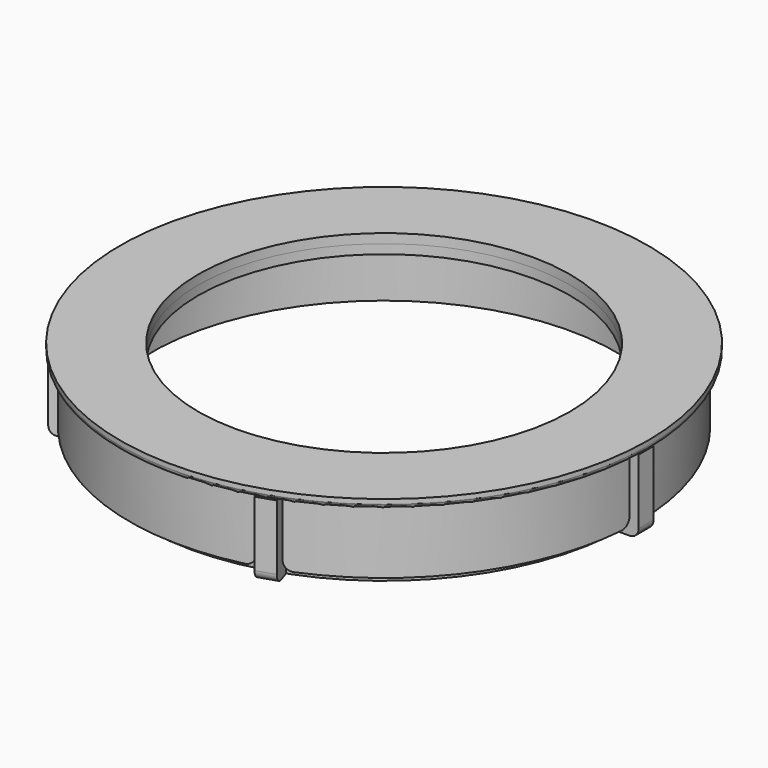
from build123d import *

# Parameters (mm, degrees)
CYLINDER002_R     = 20
CYLINDER002_DEPTH = 20
CYLINDER_R        = 25
CYLINDER_DEPTH    = 7
BOX_W             = 3
BOX_H             = 2
BOX_DEPTH         = 8
FILLET_R          = 1
ARRAY_COUNT       = 5
CYLINDER001_R     = 26
CYLINDER001_DEPTH = 8
CYLINDER005_R     = 20
CYLINDER005_DEPTH = 20
BOX001_W          = 5
BOX001_H          = 2.4
BOX001_DEPTH      = 7
ARRAY001_COUNT    = 5
CYLINDER003_R     = 26.4
CYLINDER003_DEPTH = 7
CYLINDER006_R     = 28.4
CYLINDER006_DEPTH = 1
FILLET001_R       = 0.5
CYLINDER004_R     = 27.4
CYLINDER004_DEPTH = 8
FILLET002_R       = 1


with BuildPart() as lens_hole:
    # Cylinder002 → Cylinder002 (new body)
    with BuildSketch(Plane.XY):
        Circle(CYLINDER002_R)
    extrude(amount=CYLINDER002_DEPTH)


with BuildPart() as extract_fusion:
    # Cylinder → Cylinder (new body)
    with BuildSketch(Plane.XY):
        Circle(CYLINDER_R)
    extrude(amount=CYLINDER_DEPTH)

    # Fusion: union lens hole
    add(lens_hole.part)


with BuildPart() as tick_array:
    # Box → Box (new body)
    with BuildSketch(Plane(origin=(25.2, -1, 0), x_dir=(1, 0, 0), z_dir=(0, 0, 1))):
        with Locations((1.5, 1)):
            Rectangle(BOX_W, BOX_H)
    extrude(amount=BOX_DEPTH)

    # Fillet
    fillet_edges = [tick_array.edges().sort_by_distance(p)[0] for p in [
        (25.2, 0, 0),
        (28.2, 0, 0),
    ]]
    fillet(fillet_edges, radius=FILLET_R)

    # Array: tick array ×5 about axis
    array_axis = Axis((0, 0, 0), (0, 0, 1))


with BuildPart() as tick_array_1:
    add(tick_array.part)
    for i in range(1, ARRAY_COUNT):
        add(tick_array.part.rotate(array_axis, i * 360 / ARRAY_COUNT))


with BuildPart() as border_cut:
    # Cylinder001 → Cylinder001 (new body)
    with BuildSketch(Plane.XY):
        Circle(CYLINDER001_R)
    extrude(amount=CYLINDER001_DEPTH)

    # Fusion002: union tick array
    add(tick_array_1.part)

    # Cut: cut extract fusion
    add(extract_fusion.part, mode=Mode.SUBTRACT)


with BuildPart() as lens_hole001:
    # Cylinder005 → Cylinder005 (new body)
    with BuildSketch(Plane.XY):
        Circle(CYLINDER005_R)
    extrude(amount=CYLINDER005_DEPTH)


with BuildPart() as tick_array001:
    # Box001 → Box001 (new body)
    with BuildSketch(Plane(origin=(25, -1.2, 0), x_dir=(1, 0, 0), z_dir=(0, 0, 1))):
        with Locations((2.5, 1.2)):
            Rectangle(BOX001_W, BOX001_H)
    extrude(amount=BOX001_DEPTH)

    # Array001: tick array001 ×5 about axis
    array001_axis = Axis((0, 0, 0), (0, 0, 1))


with BuildPart() as tick_array001_1:
    add(tick_array001.part)
    for i in range(1, ARRAY001_COUNT):
        add(tick_array001.part.rotate(array001_axis, i * 360 / ARRAY001_COUNT))


with BuildPart() as extract_fusion001:
    # Cylinder003 → Cylinder003 (new body)
    with BuildSketch(Plane.XY):
        Circle(CYLINDER003_R)
    extrude(amount=CYLINDER003_DEPTH)

    # Fusion001: union lens hole001, tick array001
    add(lens_hole001.part)
    add(tick_array001_1.part)


with BuildPart() as disk_fillet:
    # Cylinder006 → Cylinder006 (new body)
    with BuildSketch(Plane.XY.offset(7)):
        Circle(CYLINDER006_R)
    extrude(amount=CYLINDER006_DEPTH)

    # Fillet001
    fillet001_edges = [disk_fillet.edges().sort_by_distance(p)[0] for p in [
        (-28.4, 0, 7),
    ]]
    fillet(fillet001_edges, radius=FILLET001_R)


with BuildPart() as cover_fillet:
    # Cylinder004 → Cylinder004 (new body)
    with BuildSketch(Plane.XY):
        Circle(CYLINDER004_R)
    extrude(amount=CYLINDER004_DEPTH)

    # Fusion003: union disk fillet
    add(disk_fillet.part)

    # Cut001: cut extract fusion001
    add(extract_fusion001.part, mode=Mode.SUBTRACT)


with BuildPart() as cover_fillet_1:
    # Cut001 placement: moved
    add(cover_fillet.part.moved(Location((0, 0, 1))))

    # Fillet002
    fillet002_edges = [cover_fillet_1.edges().sort_by_distance(p)[0] for p in [
        (26.873212, -1.2, 1),
        (9.445547, -25.187123, 1),
        (7.163011, -25.928763, 1),
        (-21.035543, -16.766498, 1),
        (-22.446227, -14.824857, 1),
        (-22.446227, 14.824857, 1),
        (-21.035543, 16.766498, 1),
        (7.163011, 25.928763, 1),
        (9.445547, 25.187123, 1),
        (26.873212, 1.2, 1),
    ]]
    fillet(fillet002_edges, radius=FILLET002_R)


solid = Compound([border_cut.part, cover_fillet_1.part])
